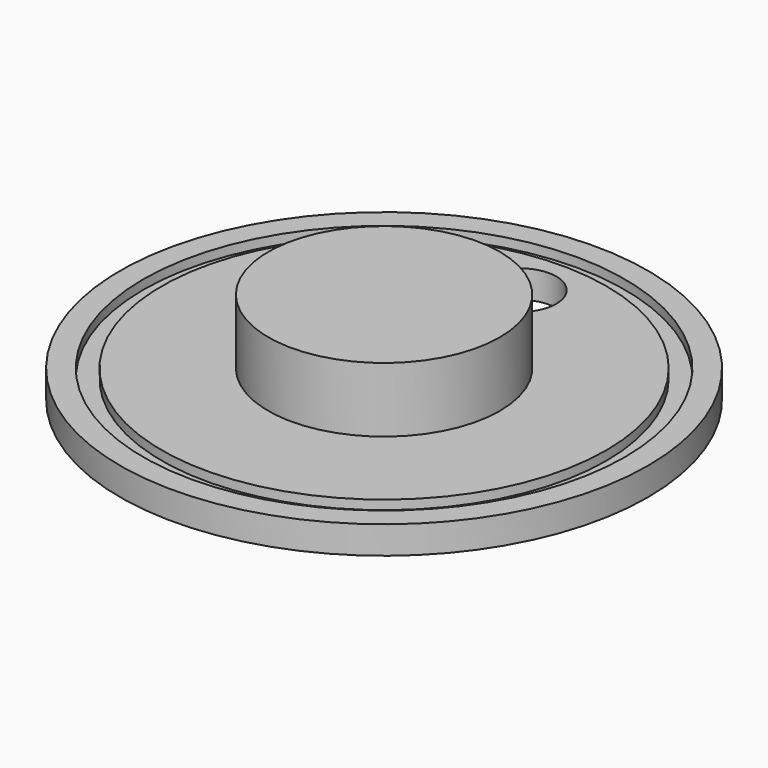
from build123d import *

# Parameters (mm, degrees)
F0_R     = 28.5
F1_DEPTH = 3
F2_R     = 26
F2_R_2   = 24
F3_DEPTH = 1
F4_R     = 12.5
F5_DEPTH = 7
F6_R     = 4
F7_DEPTH = 3


with BuildPart() as f1:
    # F0 (on Top) → F1 (new body)
    with BuildSketch(Plane.XY):
        Circle(F0_R)
    extrude(amount=F1_DEPTH)

    # F2 (on face) → F3 (cut)
    with BuildSketch(Plane.XY.offset(3)):
        Circle(F2_R)
        Circle(F2_R_2, mode=Mode.SUBTRACT)
    extrude(amount=-F3_DEPTH, mode=Mode.SUBTRACT)

    # F4 (on face) → F5 (join)
    with BuildSketch(Plane.XY.offset(3)):
        Circle(F4_R)
    extrude(amount=F5_DEPTH)

    # F6 (on face) → F7 (cut)
    with BuildSketch(Plane.XY.offset(3)):
        with Locations((0, 18.25)):
            Circle(F6_R)
    extrude(amount=-F7_DEPTH, mode=Mode.SUBTRACT)


solid = f1.part
